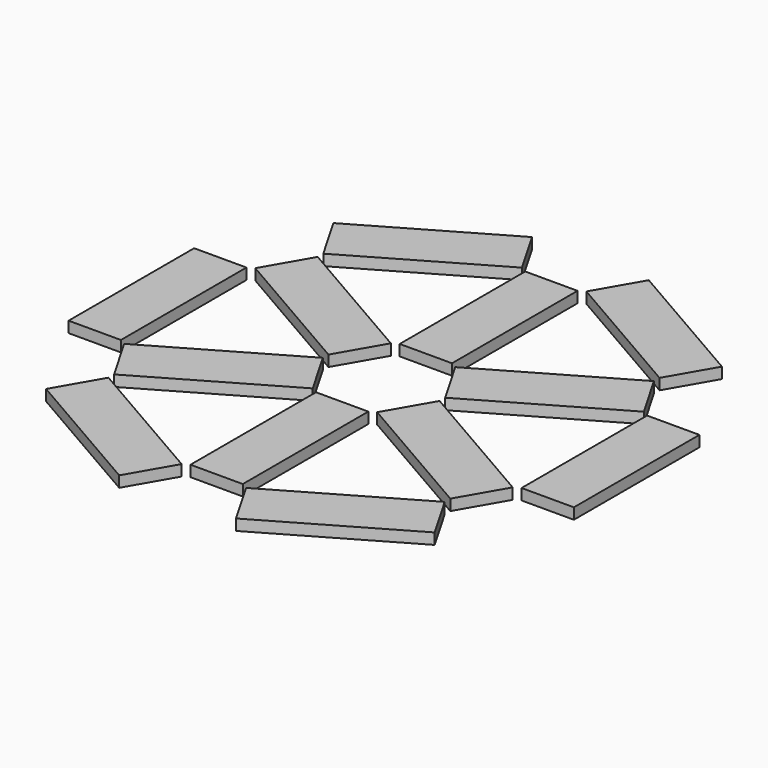
from build123d import *

# Parameters (mm, degrees)
F0_W     = 10
F0_H     = 30
F1_DEPTH = 2.1


with BuildPart() as f1:
    # F0 (on Top) → F1 (new body)
    with BuildSketch(Plane.XY):
        Polygon((-37.141016, 34.330127), (-32.141016, 25.669873), (-6.160254, 40.669873), (-11.160254, 49.330127), align=None)
        with Locations((-43.30127, 0)):
            Rectangle(F0_W, F0_H)
        Polygon((11.160254, 49.330127), (6.160254, 40.669873), (32.141016, 25.669873), (37.141016, 34.330127), align=None)
        with Locations((0, 25)):
            Rectangle(F0_W, F0_H)
        with Locations((43.30127, 0)):
            Rectangle(F0_W, F0_H)
        Polygon((37.141016, 15.669873), (32.141016, 24.330127), (6.160254, 9.330127), (11.160254, 0.669873), align=None)
        Polygon((-32.141016, 24.330127), (-37.141016, 15.669873), (-11.160254, 0.669873), (-6.160254, 9.330127), align=None)
        Polygon((32.141016, -24.330127), (37.141016, -15.669873), (11.160254, -0.669873), (6.160254, -9.330127), align=None)
        Polygon((37.141016, -34.330127), (32.141016, -25.669873), (6.160254, -40.669873), (11.160254, -49.330127), align=None)
        with Locations((0, -25)):
            Rectangle(F0_W, F0_H)
        Polygon((-37.141016, -15.669873), (-32.141016, -24.330127), (-6.160254, -9.330127), (-11.160254, -0.669873), align=None)
        Polygon((-11.160254, -49.330127), (-6.160254, -40.669873), (-32.141016, -25.669873), (-37.141016, -34.330127), align=None)
    extrude(amount=F1_DEPTH)


solid = f1.part
